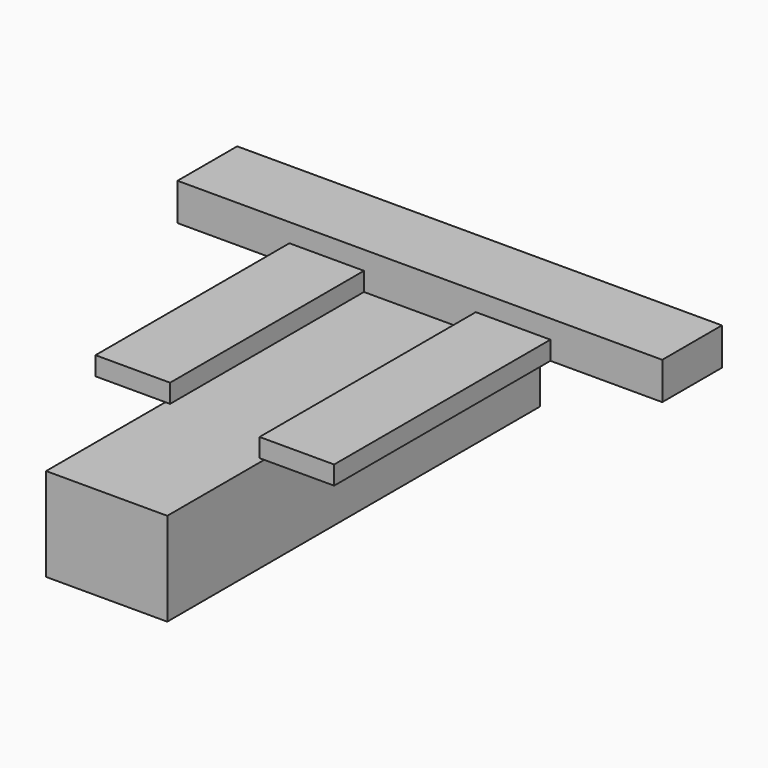
from build123d import *

# Parameters (mm, degrees)
F0_W     = 82.55
F0_H     = 12.7
F1_DEPTH = 6.35
F2_W     = 12.7
F2_H     = 53.975
F2_H_2   = 58.7375
F3_DEPTH = 3.175
F4_W     = 20.6375
F4_H     = 79.375
F5_DEPTH = 15.875


with BuildPart() as f1:
    # F0 (on Top) → F1 (new body)
    with BuildSketch(Plane.XY):
        with Locations((0, 73.025)):
            Rectangle(F0_W, F0_H)
    extrude(amount=F1_DEPTH)

    # F2 (on face) → F3 (join)
    with BuildSketch(Plane(origin=(0, 0, 0), x_dir=(1, 0, 0), z_dir=(0, 0, -1))):
        with Locations((-15.875, -52.3875)):
            Rectangle(F2_W, F2_H)
        with Locations((15.875, -50.00625)):
            Rectangle(F2_W, F2_H_2)
    extrude(amount=-F3_DEPTH)

    # F4 (on face) → F5 (join)
    with BuildSketch(Plane(origin=(0, 0, 0), x_dir=(1, 0, 0), z_dir=(0, 0, -1))):
        with Locations((0, -39.6875)):
            Rectangle(F4_W, F4_H)
    extrude(amount=F5_DEPTH)


solid = f1.part
